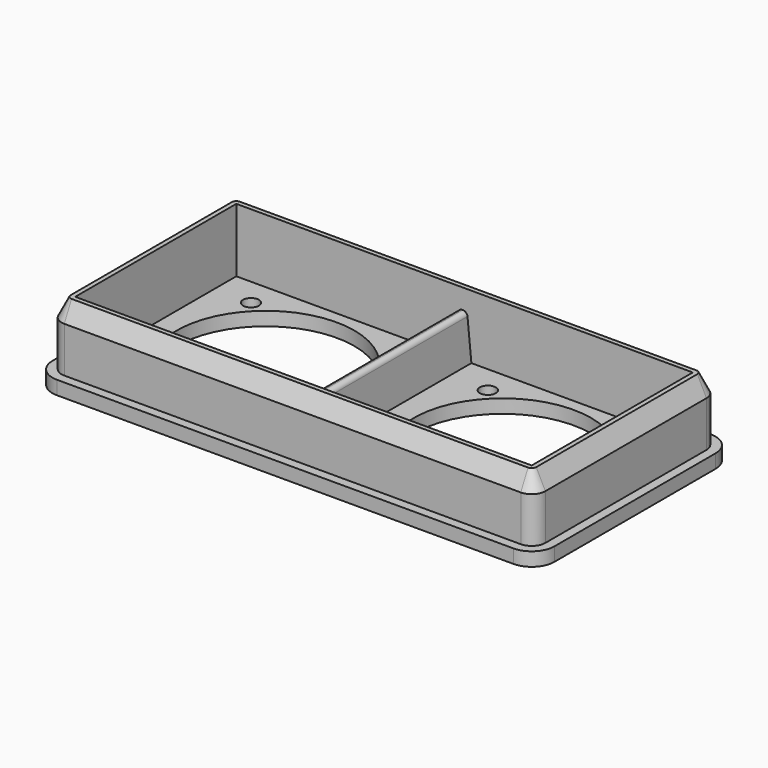
from build123d import *

# Parameters (mm, degrees)
F1_DEPTH = 3
F2_W     = 100.2
F2_H     = 44.2
F3_DEPTH = 14
F4_SIZE2 = 4
F4_SIZE  = 2
F5_R     = 19.5
F5_R_2   = 1.75
F6_DEPTH = 3.001
F7_W     = 3
F7_H     = 44.2
F8_DEPTH = 10
F8_TAPER = 3
F9_R     = 1


with BuildPart() as f1:
    # F0 (on Top) → F1 (new body)
    with BuildSketch(Plane.XY):
        with BuildLine():
            ThreePointArc((0, 5), (1.4644660941, 1.4644660941), (5, 0))
            Line((5, 0), (105.2, 0))
            ThreePointArc((105.2, 0), (108.7355339059, 1.4644660941), (110.2, 5))
            Line((110.2, 5), (110.2, 49.2))
            ThreePointArc((110.2, 49.2), (108.7355339059, 52.7355339059), (105.2, 54.2))
            Line((105.2, 54.2), (5, 54.2))
            ThreePointArc((5, 54.2), (1.4644660941, 52.7355339059), (0, 49.2))
            Line((0, 49.2), (0, 5))
        make_face()
    extrude(amount=F1_DEPTH)

    # F2 (on face) → F3 (join)
    with BuildSketch(Plane.XY.offset(3)):
        with BuildLine():
            ThreePointArc((2, 5), (2.8786796564, 2.8786796564), (5, 2))
            Line((5, 2), (105.2, 2))
            ThreePointArc((105.2, 2), (107.3213203436, 2.8786796564), (108.2, 5))
            Line((108.2, 5), (108.2, 49.2))
            ThreePointArc((108.2, 49.2), (107.3213203436, 51.3213203436), (105.2, 52.2))
            Line((105.2, 52.2), (5, 52.2))
            ThreePointArc((5, 52.2), (2.8786796564, 51.3213203436), (2, 49.2))
            Line((2, 49.2), (2, 5))
        make_face()
        with Locations((55.1, 27.1)):
            Rectangle(F2_W, F2_H, mode=Mode.SUBTRACT)
    extrude(amount=F3_DEPTH)

    # F4
    f4_edges = [f1.edges().sort_by_distance(p)[0] for p in [
        (55.1, 2, 17),
    ]]
    f4_side = f1.faces().sort_by_distance((3.709296, 3.709296, 17))[0]
    chamfer(f4_edges, length=F4_SIZE, length2=F4_SIZE2, reference=f4_side)

    # F5 (on face) → F6 (cut, through all)
    with BuildSketch(Plane.XY.offset(3)):
        with Locations((29.1, 27.1)):
            Circle(F5_R)
        with Locations((13.1, 43.1)):
            Circle(F5_R_2)
        with Locations((13.1, 11.1)):
            Circle(F5_R_2)
        with Locations((45.1, 11.1)):
            Circle(F5_R_2)
        with Locations((45.1, 43.1)):
            Circle(F5_R_2)
        with Locations((81.1, 27.1)):
            Circle(F5_R)
        with Locations((65.1, 43.1)):
            Circle(F5_R_2)
        with Locations((65.1, 11.1)):
            Circle(F5_R_2)
        with Locations((97.1, 11.1)):
            Circle(F5_R_2)
        with Locations((97.1, 43.1)):
            Circle(F5_R_2)
    extrude(amount=-F6_DEPTH, mode=Mode.SUBTRACT)

    # F7 (on face) → F8 (join)
    with BuildSketch(Plane.XY.offset(3)):
        with Locations((55.1, 27.1)):
            Rectangle(F7_W, F7_H)
    extrude(amount=F8_DEPTH, taper=F8_TAPER)

    # F9
    f9_edges = [f1.edges().sort_by_distance(p)[0] for p in [
        (56.075922, 27.1, 13),
        (54.124078, 27.1, 13),
    ]]
    fillet(f9_edges, radius=F9_R)


solid = f1.part
